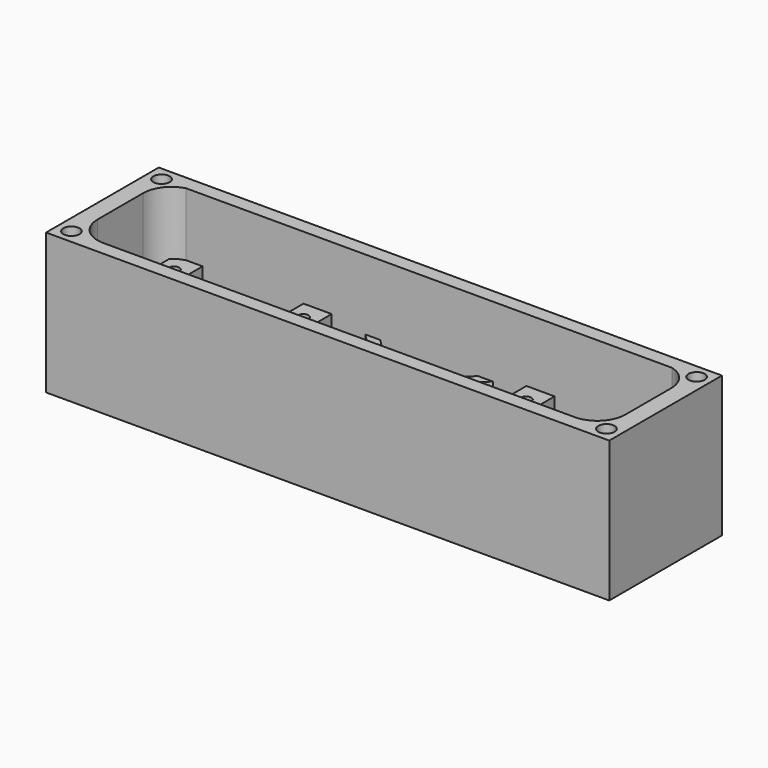
from build123d import *

# Parameters (mm, degrees)
SKETCH005_R  = 1.5
PAD004_DEPTH = 22
SKETCH004_W  = 8
SKETCH004_H  = 38
PAD003_DEPTH = 22
SKETCH006_R  = 2.3
PAD005_DEPTH = 70
SKETCH002_W  = 160
SKETCH002_H  = 40
PAD002_DEPTH = 40
SKETCH_R     = 10
PAD001_DEPTH = 5
SKETCH001_W  = 160
SKETCH001_H  = 40
PAD_DEPTH    = 3
PAD006_DEPTH = 20


with BuildPart() as pylon_thread_holes:
    # Sketch005 → Pad004 (new body)
    with BuildSketch(Plane.XY):
        with Locations((-68.335, 10.855)):
            Circle(SKETCH005_R)
        with Locations((-31.665, 10.855)):
            Circle(SKETCH005_R)
        with Locations((-68.335, -10.855)):
            Circle(SKETCH005_R)
        with Locations((-31.665, -10.855)):
            Circle(SKETCH005_R)
        with Locations((31.665, 10.855)):
            Circle(SKETCH005_R)
        with Locations((31.665, -10.855)):
            Circle(SKETCH005_R)
        with Locations((68.335, 10.855)):
            Circle(SKETCH005_R)
        with Locations((68.335, -10.855)):
            Circle(SKETCH005_R)
    extrude(amount=PAD004_DEPTH)


with BuildPart() as pylons:
    # Sketch004 → Pad003 (new body)
    with BuildSketch(Plane.XY):
        with Locations((-68.335, 0)):
            Rectangle(SKETCH004_W, SKETCH004_H)
        with Locations((-31.665, 0)):
            Rectangle(SKETCH004_W, SKETCH004_H)
        with Locations((31.665, 0)):
            Rectangle(SKETCH004_W, SKETCH004_H)
        with Locations((68.335, 0)):
            Rectangle(SKETCH004_W, SKETCH004_H)
    extrude(amount=PAD003_DEPTH)

    # Cut001: cut Pylon Thread Holes
    add(pylon_thread_holes.part, mode=Mode.SUBTRACT)


with BuildPart() as back_panel_screw_holes:
    # Sketch006 → Pad005 (new body)
    with BuildSketch(Plane.XY):
        with Locations((-76, 16)):
            Circle(SKETCH006_R)
        with Locations((-76, -16)):
            Circle(SKETCH006_R)
        with Locations((76, 16)):
            Circle(SKETCH006_R)
        with Locations((76, -16)):
            Circle(SKETCH006_R)
    extrude(amount=PAD005_DEPTH)


with BuildPart() as sidewall:
    # Sketch002 → Pad002 (new body)
    with BuildSketch(Plane.XY):
        Rectangle(SKETCH002_W, SKETCH002_H)
        with BuildLine():
            Line((75, 8.254033), (75, -8))
            ThreePointArc((67, -16), (72.656854, -13.656854), (75, -8))
            Line((67, -16), (-67, -16))
            ThreePointArc((-75, -8), (-72.656854, -13.656854), (-67, -16))
            Line((-75, -8), (-75, 8.254033))
            ThreePointArc((-69, 16), (-73.324555, 13.153013), (-75, 8.254033))
            Line((-69, 16), (69, 16))
            ThreePointArc((75, 8.254033), (73.324555, 13.153013), (69, 16))
        make_face(mode=Mode.SUBTRACT)
    extrude(amount=PAD002_DEPTH)

    # Cut002: cut Back Panel Screw Holes
    add(back_panel_screw_holes.part, mode=Mode.SUBTRACT)


with BuildPart() as lens_holes:
    # Sketch → Pad001 (new body)
    with BuildSketch(Plane.XY):
        with Locations((-50, 0)):
            Circle(SKETCH_R)
        with Locations((50, 0)):
            Circle(SKETCH_R)
    extrude(amount=PAD001_DEPTH)


with BuildPart() as whole:
    # Sketch001 → Pad (new body)
    with BuildSketch(Plane.XY):
        Rectangle(SKETCH001_W, SKETCH001_H)
    extrude(amount=PAD_DEPTH)

    # Cut: cut Lens Holes
    add(lens_holes.part, mode=Mode.SUBTRACT)

    # Fusion: union Sidewall
    add(sidewall.part)

    # Fusion001: union Pylons
    add(pylons.part)


with BuildPart() as fusion002:
    # Sketch007 → Pad006 (new body)
    with BuildSketch(Plane.XY):
        Polygon((-21.12132, 19), (-2.12132, 0), (-21.12132, -19), (-16.87868, -19), (0, -2.12132), (16.87868, -19), (21.12132, -19), (2.12132, 0), (21.12132, 19), (16.87868, 19), (0, 2.12132), (-16.87868, 19), align=None)
    extrude(amount=PAD006_DEPTH)

    # Fusion002: union Whole
    add(whole.part)


solid = fusion002.part
